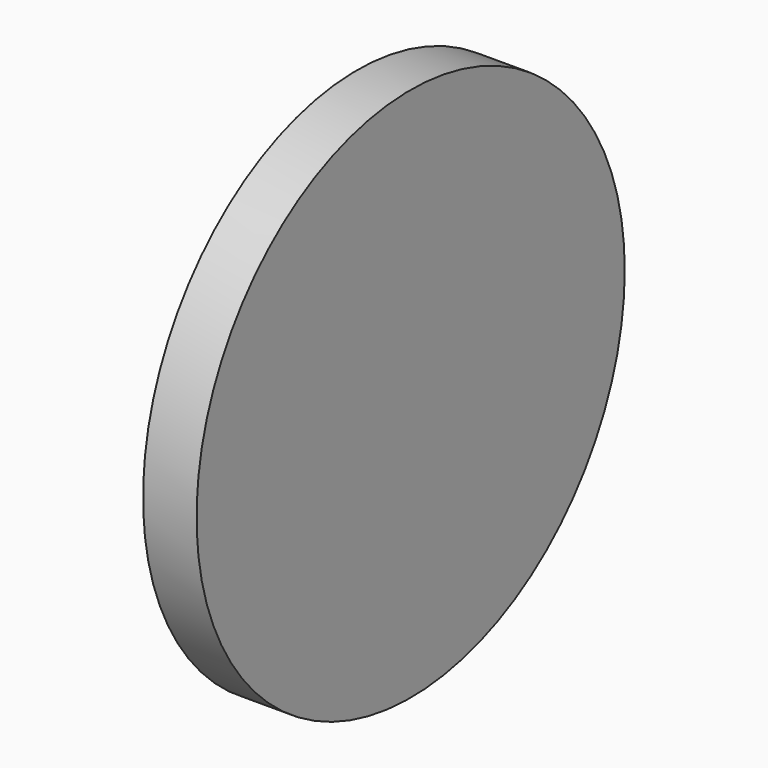
from build123d import *

# Parameters (mm, degrees)
F0_R     = 50
F1_DEPTH = 5


with BuildPart() as f1:
    # F0 (on Right) → F1 (new body, symmetric)
    with BuildSketch(Plane.YZ):
        Circle(F0_R)
        Circle(F0_R)
    extrude(amount=F1_DEPTH, both=True)


solid = f1.part
